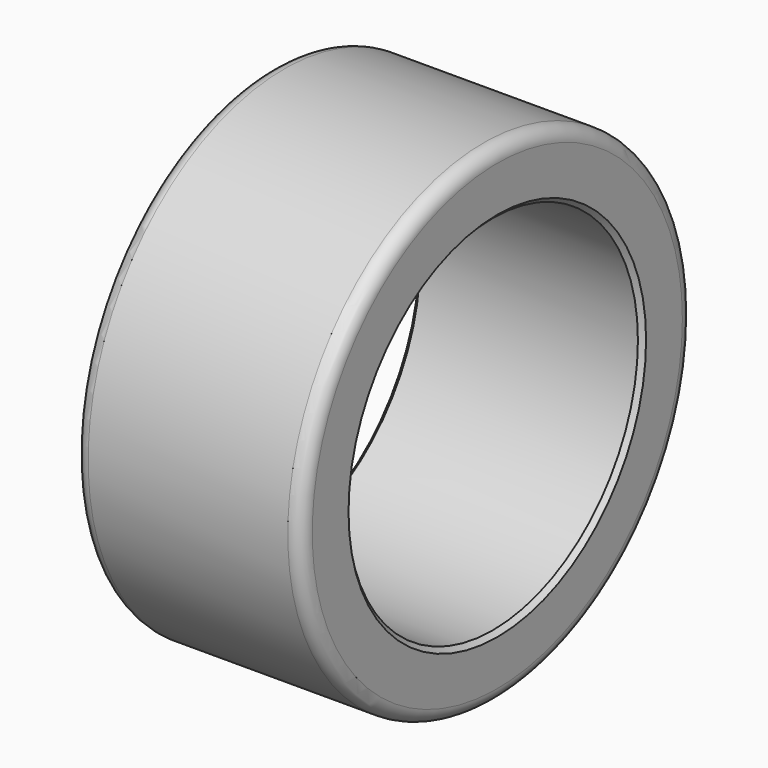
from build123d import *

# Parameters (mm, degrees)
SKETCH011_R   = 54
SKETCH011_R_2 = 40
PAD007_DEPTH  = 25
FILLET_R      = 3
CHAMFER_SIZE  = 1


with BuildPart() as part:
    # Sketch011 → Pad007 (new body, symmetric)
    with BuildSketch(Plane.YZ):
        Circle(SKETCH011_R)
        Circle(SKETCH011_R_2, mode=Mode.SUBTRACT)
    extrude(amount=PAD007_DEPTH, both=True)

    # Fillet
    fillet_edges = [part.edges().sort_by_distance(p)[0] for p in [
        (25, -54, 0),
        (-25, -54, 0),
    ]]
    fillet(fillet_edges, radius=FILLET_R)

    # Chamfer
    chamfer_edges = [part.edges().sort_by_distance(p)[0] for p in [
        (0, 40, 0),
        (-25, -40, 0),
        (25, -40, 0),
    ]]
    chamfer(chamfer_edges, length=CHAMFER_SIZE)


solid = part.part
